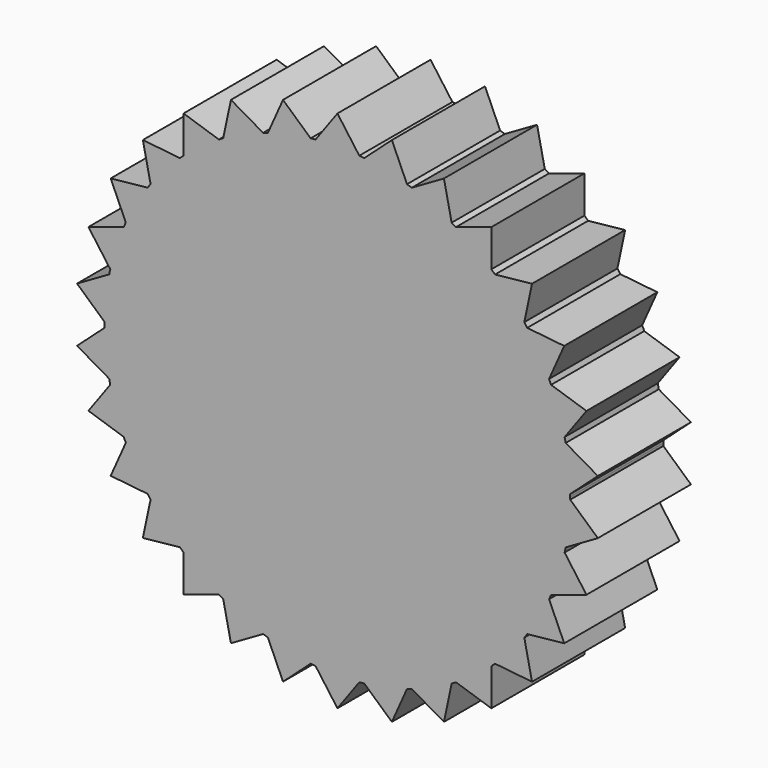
from build123d import *

# Parameters (mm, degrees)
F1_DEPTH = 12.7


with BuildPart() as f1:
    # F0 (on Front) → F1 (new body)
    with BuildSketch(Plane.XZ):
        with BuildLine():
            ThreePointArc((25.39854, -0.27229), (25.399635, -0.136147), (25.4, 0))
            ThreePointArc((25.4, 0), (25.399635, 0.136147), (25.39854, 0.27229))
            ThreePointArc((25.39854, 0.27229), (25.260856, 2.655023), (24.900134, 5.014313))
            ThreePointArc((24.900134, 5.014313), (24.844949, 5.280957), (24.786909, 5.546994))
            ThreePointArc((24.786909, 5.546994), (24.156836, 7.849032), (23.313472, 10.081768))
            ThreePointArc((23.313472, 10.081768), (23.204055, 10.331111), (23.091971, 10.579267))
            ThreePointArc((23.091971, 10.579267), (21.997045, 12.7), (20.707899, 14.7086))
            ThreePointArc((20.707899, 14.7086), (20.549032, 14.929745), (20.387803, 15.149175))
            ThreePointArc((20.387803, 15.149175), (18.875879, 16.995917), (17.197292, 18.692596))
            ThreePointArc((17.197292, 18.692596), (16.995917, 18.875879), (16.79259, 19.056992))
            ThreePointArc((16.79259, 19.056992), (14.929745, 20.549032), (12.935081, 21.859636))
            ThreePointArc((12.935081, 21.859636), (12.7, 21.997045), (12.46346, 22.131926))
            ThreePointArc((12.46346, 22.131926), (10.331111, 23.204055), (8.107544, 24.071305))
            ThreePointArc((8.107544, 24.071305), (7.849032, 24.156836), (7.589617, 24.23959))
            ThreePointArc((7.589617, 24.23959), (5.280957, 24.844949), (2.925669, 25.230943))
            ThreePointArc((2.925669, 25.230943), (2.655023, 25.260856), (2.384072, 25.287867))
            ThreePointArc((2.384072, 25.287867), (0, 25.4), (-2.384072, 25.287867))
            ThreePointArc((-2.384072, 25.287867), (-2.655023, 25.260856), (-2.925669, 25.230943))
            ThreePointArc((-2.925669, 25.230943), (-5.280957, 24.844949), (-7.589617, 24.23959))
            ThreePointArc((-7.589617, 24.23959), (-7.849032, 24.156836), (-8.107544, 24.071305))
            ThreePointArc((-8.107544, 24.071305), (-10.331111, 23.204055), (-12.46346, 22.131926))
            ThreePointArc((-12.46346, 22.131926), (-12.7, 21.997045), (-12.935081, 21.859636))
            ThreePointArc((-12.935081, 21.859636), (-14.929745, 20.549032), (-16.79259, 19.056992))
            ThreePointArc((-16.79259, 19.056992), (-16.995917, 18.875879), (-17.197292, 18.692596))
            ThreePointArc((-17.197292, 18.692596), (-18.875879, 16.995917), (-20.387803, 15.149175))
            ThreePointArc((-20.387803, 15.149175), (-20.549032, 14.929745), (-20.707899, 14.7086))
            ThreePointArc((-20.707899, 14.7086), (-21.997045, 12.7), (-23.091971, 10.579267))
            ThreePointArc((-23.091971, 10.579267), (-23.204055, 10.331111), (-23.313472, 10.081768))
            ThreePointArc((-23.313472, 10.081768), (-24.156836, 7.849032), (-24.786909, 5.546994))
            ThreePointArc((-24.786909, 5.546994), (-24.844949, 5.280957), (-24.900134, 5.014313))
            ThreePointArc((-24.900134, 5.014313), (-25.260856, 2.655023), (-25.39854, 0.27229))
            ThreePointArc((-25.39854, 0.27229), (-25.4, 0), (-25.39854, -0.27229))
            ThreePointArc((-25.39854, -0.27229), (-25.260856, -2.655023), (-24.900134, -5.014313))
            ThreePointArc((-24.900134, -5.014313), (-24.844949, -5.280957), (-24.786909, -5.546994))
            ThreePointArc((-24.786909, -5.546994), (-24.156836, -7.849032), (-23.313472, -10.081768))
            ThreePointArc((-23.313472, -10.081768), (-23.204055, -10.331111), (-23.091971, -10.579267))
            ThreePointArc((-23.091971, -10.579267), (-21.997045, -12.7), (-20.707899, -14.7086))
            ThreePointArc((-20.707899, -14.7086), (-20.549032, -14.929745), (-20.387803, -15.149175))
            ThreePointArc((-20.387803, -15.149175), (-18.875879, -16.995917), (-17.197292, -18.692596))
            ThreePointArc((-17.197292, -18.692596), (-16.995917, -18.875879), (-16.79259, -19.056992))
            ThreePointArc((-16.79259, -19.056992), (-14.929745, -20.549032), (-12.935081, -21.859636))
            ThreePointArc((-12.935081, -21.859636), (-12.7, -21.997045), (-12.46346, -22.131926))
            ThreePointArc((-12.46346, -22.131926), (-10.331111, -23.204055), (-8.107544, -24.071305))
            ThreePointArc((-8.107544, -24.071305), (-7.849032, -24.156836), (-7.589617, -24.23959))
            ThreePointArc((-7.589617, -24.23959), (-5.280957, -24.844949), (-2.925669, -25.230943))
            ThreePointArc((-2.925669, -25.230943), (-2.655023, -25.260856), (-2.384072, -25.287867))
            ThreePointArc((-2.384072, -25.287867), (0, -25.4), (2.384072, -25.287867))
            ThreePointArc((2.384072, -25.287867), (2.655023, -25.260856), (2.925669, -25.230943))
            ThreePointArc((2.925669, -25.230943), (5.280957, -24.844949), (7.589617, -24.23959))
            ThreePointArc((7.589617, -24.23959), (7.849032, -24.156836), (8.107544, -24.071305))
            ThreePointArc((8.107544, -24.071305), (10.331111, -23.204055), (12.46346, -22.131926))
            ThreePointArc((12.46346, -22.131926), (12.7, -21.997045), (12.935081, -21.859636))
            ThreePointArc((12.935081, -21.859636), (14.929745, -20.549032), (16.79259, -19.056992))
            ThreePointArc((16.79259, -19.056992), (16.995917, -18.875879), (17.197292, -18.692596))
            ThreePointArc((17.197292, -18.692596), (18.875879, -16.995917), (20.387803, -15.149175))
            ThreePointArc((20.387803, -15.149175), (20.549032, -14.929745), (20.707899, -14.7086))
            ThreePointArc((20.707899, -14.7086), (21.997045, -12.7), (23.091971, -10.579267))
            ThreePointArc((23.091971, -10.579267), (23.204055, -10.331111), (23.313472, -10.081768))
            ThreePointArc((23.313472, -10.081768), (24.156836, -7.849032), (24.786909, -5.546994))
            ThreePointArc((24.786909, -5.546994), (24.844949, -5.280957), (24.900134, -5.014313))
            ThreePointArc((24.900134, -5.014313), (25.260856, -2.655023), (25.39854, -0.27229))
        make_face()
        with BuildLine():
            ThreePointArc((24.900134, 5.014313), (25.260856, 2.655023), (25.39854, 0.27229))
            Line((25.39854, 0.27229), (28.412516, 2.986276))
            Line((28.412516, 2.986276), (24.900134, 5.014313))
        make_face()
        with BuildLine():
            Line((28.412516, -2.986276), (25.39854, -0.27229))
            ThreePointArc((25.39854, -0.27229), (25.260856, -2.655023), (24.900134, -5.014313))
            Line((24.900134, -5.014313), (28.412516, -2.986276))
        make_face()
        with BuildLine():
            ThreePointArc((23.313472, 10.081768), (24.156836, 7.849032), (24.786909, 5.546994))
            Line((24.786909, 5.546994), (27.170753, 8.828313))
            Line((27.170753, 8.828313), (23.313472, 10.081768))
        make_face()
        with BuildLine():
            Line((27.170753, -8.828313), (24.786909, -5.546994))
            ThreePointArc((24.786909, -5.546994), (24.156836, -7.849032), (23.313472, -10.081768))
            Line((23.313472, -10.081768), (27.170753, -8.828313))
        make_face()
        with BuildLine():
            ThreePointArc((20.707899, 14.7086), (21.997045, 12.7), (23.091971, 10.579267))
            Line((23.091971, 10.579267), (24.741497, 14.28451))
            Line((24.741497, 14.28451), (20.707899, 14.7086))
        make_face()
        with BuildLine():
            Line((24.741497, -14.28451), (23.091971, -10.579267))
            ThreePointArc((23.091971, -10.579267), (21.997045, -12.7), (20.707899, -14.7086))
            Line((20.707899, -14.7086), (24.741497, -14.28451))
        make_face()
        with BuildLine():
            ThreePointArc((17.197292, 18.692596), (18.875879, 16.995917), (20.387803, 15.149175))
            Line((20.387803, 15.149175), (21.23092, 19.116406))
            Line((21.23092, 19.116406), (17.197292, 18.692596))
        make_face()
        with BuildLine():
            Line((21.23092, -19.116406), (20.387803, -15.149175))
            ThreePointArc((20.387803, -15.149175), (18.875879, -16.995917), (17.197292, -18.692596))
            Line((17.197292, -18.692596), (21.23092, -19.116406))
        make_face()
        with BuildLine():
            ThreePointArc((12.935081, 21.859636), (14.929745, 20.549032), (16.79259, 19.056992))
            Line((16.79259, 19.056992), (16.792449, 23.112823))
            Line((16.792449, 23.112823), (12.935081, 21.859636))
        make_face()
        with BuildLine():
            Line((16.792449, -23.112823), (16.79259, -19.056992))
            ThreePointArc((16.79259, -19.056992), (14.929745, -20.549032), (12.935081, -21.859636))
            Line((12.935081, -21.859636), (16.792449, -23.112823))
        make_face()
        with BuildLine():
            ThreePointArc((8.107544, 24.071305), (10.331111, 23.204055), (12.46346, 22.131926))
            Line((12.46346, 22.131926), (11.620067, 26.099099))
            Line((11.620067, 26.099099), (8.107544, 24.071305))
        make_face()
        with BuildLine():
            Line((11.620067, -26.099099), (12.46346, -22.131926))
            ThreePointArc((12.46346, -22.131926), (10.331111, -23.204055), (8.107544, -24.071305))
            Line((8.107544, -24.071305), (11.620067, -26.099099))
        make_face()
        with BuildLine():
            ThreePointArc((2.925669, 25.230943), (5.280957, 24.844949), (7.589617, 24.23959))
            Line((7.589617, 24.23959), (5.939833, 27.944719))
            Line((5.939833, 27.944719), (2.925669, 25.230943))
        make_face()
        with BuildLine():
            Line((5.939833, -27.944719), (7.589617, -24.23959))
            ThreePointArc((7.589617, -24.23959), (5.280957, -24.844949), (2.925669, -25.230943))
            Line((2.925669, -25.230943), (5.939833, -27.944719))
        make_face()
        with BuildLine():
            ThreePointArc((-2.384072, 25.287867), (0, 25.4), (2.384072, 25.287867))
            Line((2.384072, 25.287867), (0, 28.56902))
            Line((0, 28.56902), (-2.384072, 25.287867))
        make_face()
        with BuildLine():
            Line((0, -28.56902), (2.384072, -25.287867))
            ThreePointArc((2.384072, -25.287867), (0, -25.4), (-2.384072, -25.287867))
            Line((-2.384072, -25.287867), (0, -28.56902))
        make_face()
        with BuildLine():
            ThreePointArc((-7.589617, 24.23959), (-5.280957, 24.844949), (-2.925669, 25.230943))
            Line((-2.925669, 25.230943), (-5.939833, 27.944719))
            Line((-5.939833, 27.944719), (-7.589617, 24.23959))
        make_face()
        with BuildLine():
            Line((-5.939833, -27.944719), (-2.925669, -25.230943))
            ThreePointArc((-2.925669, -25.230943), (-5.280957, -24.844949), (-7.589617, -24.23959))
            Line((-7.589617, -24.23959), (-5.939833, -27.944719))
        make_face()
        with BuildLine():
            ThreePointArc((-12.46346, 22.131926), (-10.331111, 23.204055), (-8.107544, 24.071305))
            Line((-8.107544, 24.071305), (-11.620067, 26.099099))
            Line((-11.620067, 26.099099), (-12.46346, 22.131926))
        make_face()
        with BuildLine():
            Line((-11.620067, -26.099099), (-8.107544, -24.071305))
            ThreePointArc((-8.107544, -24.071305), (-10.331111, -23.204055), (-12.46346, -22.131926))
            Line((-12.46346, -22.131926), (-11.620067, -26.099099))
        make_face()
        with BuildLine():
            ThreePointArc((-16.79259, 19.056992), (-14.929745, 20.549032), (-12.935081, 21.859636))
            Line((-12.935081, 21.859636), (-16.792449, 23.112823))
            Line((-16.792449, 23.112823), (-16.79259, 19.056992))
        make_face()
        with BuildLine():
            Line((-16.792449, -23.112823), (-12.935081, -21.859636))
            ThreePointArc((-12.935081, -21.859636), (-14.929745, -20.549032), (-16.79259, -19.056992))
            Line((-16.79259, -19.056992), (-16.792449, -23.112823))
        make_face()
        with BuildLine():
            ThreePointArc((-20.387803, 15.149175), (-18.875879, 16.995917), (-17.197292, 18.692596))
            Line((-17.197292, 18.692596), (-21.23092, 19.116406))
            Line((-21.23092, 19.116406), (-20.387803, 15.149175))
        make_face()
        with BuildLine():
            Line((-21.23092, -19.116406), (-17.197292, -18.692596))
            ThreePointArc((-17.197292, -18.692596), (-18.875879, -16.995917), (-20.387803, -15.149175))
            Line((-20.387803, -15.149175), (-21.23092, -19.116406))
        make_face()
        with BuildLine():
            ThreePointArc((-23.091971, 10.579267), (-21.997045, 12.7), (-20.707899, 14.7086))
            Line((-20.707899, 14.7086), (-24.741497, 14.28451))
            Line((-24.741497, 14.28451), (-23.091971, 10.579267))
        make_face()
        with BuildLine():
            Line((-24.741497, -14.28451), (-20.707899, -14.7086))
            ThreePointArc((-20.707899, -14.7086), (-21.997045, -12.7), (-23.091971, -10.579267))
            Line((-23.091971, -10.579267), (-24.741497, -14.28451))
        make_face()
        with BuildLine():
            ThreePointArc((-24.786909, 5.546994), (-24.156836, 7.849032), (-23.313472, 10.081768))
            Line((-23.313472, 10.081768), (-27.170753, 8.828313))
            Line((-27.170753, 8.828313), (-24.786909, 5.546994))
        make_face()
        with BuildLine():
            Line((-27.170753, -8.828313), (-23.313472, -10.081768))
            ThreePointArc((-23.313472, -10.081768), (-24.156836, -7.849032), (-24.786909, -5.546994))
            Line((-24.786909, -5.546994), (-27.170753, -8.828313))
        make_face()
        with BuildLine():
            ThreePointArc((-25.39854, 0.27229), (-25.260856, 2.655023), (-24.900134, 5.014313))
            Line((-24.900134, 5.014313), (-28.412516, 2.986276))
            Line((-28.412516, 2.986276), (-25.39854, 0.27229))
        make_face()
        with BuildLine():
            Line((-28.412516, -2.986276), (-24.900134, -5.014313))
            ThreePointArc((-24.900134, -5.014313), (-25.260856, -2.655023), (-25.39854, -0.27229))
            Line((-25.39854, -0.27229), (-28.412516, -2.986276))
        make_face()
    extrude(amount=F1_DEPTH)


solid = f1.part
